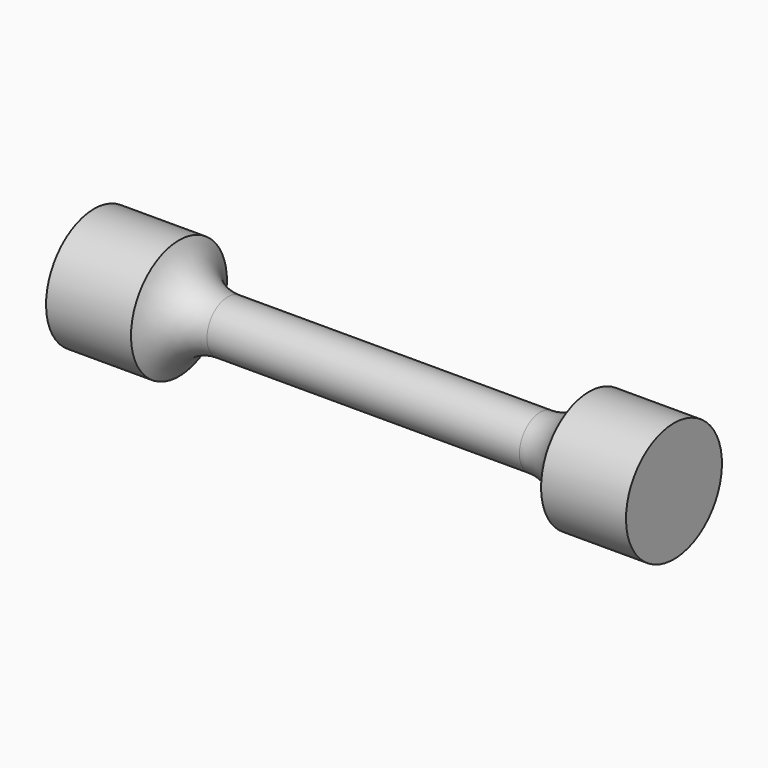
from build123d import *


with BuildPart() as f1:
    # F0 (on Front) → F1 (revolve)
    with BuildSketch(Plane.XZ):
        with BuildLine():
            Line((18, 3), (0, 3))
            Line((0, 3), (-18, 3))
            ThreePointArc((-18, 3), (-21.423939, 4.072867), (-23.623401, 6.907786))
            Line((-23.623401, 6.907786), (-33.410074, 6.907786))
            Line((-33.410074, 6.907786), (-33.410074, 0))
            Line((-33.410074, 0), (0, 0))
            Line((0, 0), (33.410074, 0))
            Line((33.410074, 0), (33.410074, 6.907786))
            Line((33.410074, 6.907786), (23.623401, 6.907786))
            ThreePointArc((23.623401, 6.907786), (21.423939, 4.072867), (18, 3))
        make_face()
    revolve(axis=Axis((-16.705037, 0, 0), (1, 0, 0)))


solid = f1.part
